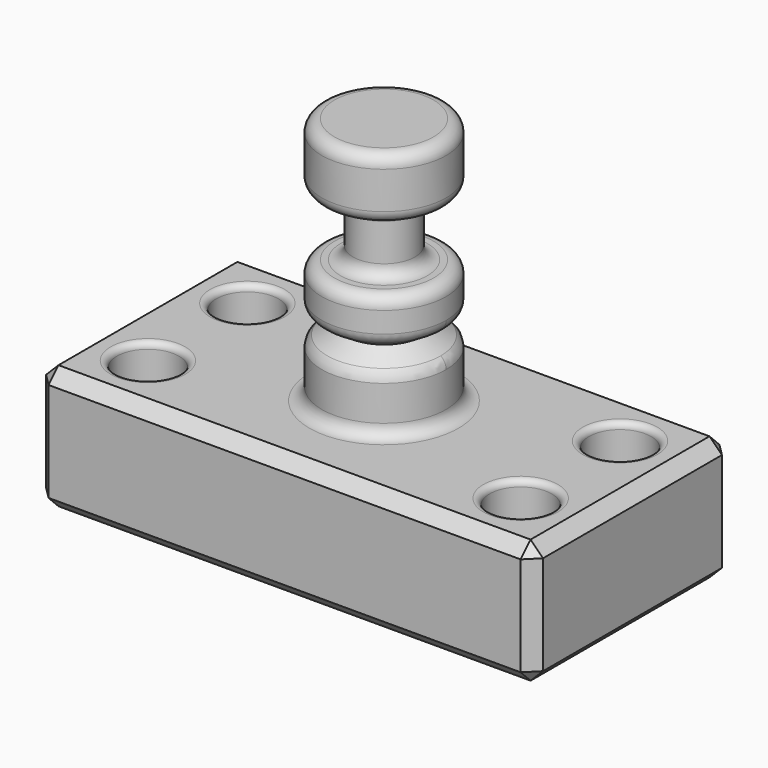
from build123d import *

# Parameters (mm, degrees)
F0_W     = 101.6
F0_H     = 50.8
F1_DEPTH = 25.4
F2_R     = 6.35
F3_DEPTH = 25.401
F4_W     = 12.7
F4_H     = 50.8
F6_W     = 10.517051357
F6_H     = 12.7
F8_R     = 2.54
F9_SIZE  = 2.54
F10_R    = 1.27
F13_R    = 2.54


with BuildPart() as f1:
    # F0 (on Top) → F1 (new body)
    with BuildSketch(Plane.XY):
        Rectangle(F0_W, F0_H)
    extrude(amount=F1_DEPTH)

    # F2 (on face) → F3 (cut, through all)
    with BuildSketch(Plane.XY.offset(25.4)):
        with Locations((-38.1, 12.7)):
            Circle(F2_R)
        with Locations((-38.1, -12.7)):
            Circle(F2_R)
        with Locations((38.1, -12.7)):
            Circle(F2_R)
        with Locations((38.1, 12.7)):
            Circle(F2_R)
    extrude(amount=-F3_DEPTH, mode=Mode.SUBTRACT)

    # F4 (on Front) → F5 (revolve)
    with BuildSketch(Plane.XZ):
        with Locations((-6.35, 50.8)):
            Rectangle(F4_W, F4_H)
    revolve(axis=Axis((0, 0, 50.8), (0, 0, -1)))

    # F6 (on Front) → F7 (revolve, cut)
    with BuildSketch(Plane.XZ):
        with Locations((-11.6085256785, 57.15)):
            Rectangle(F6_W, F6_H)
    revolve(axis=Axis((0, 0, 42.492736131), (0, 0, 1)), mode=Mode.SUBTRACT)

    # F8
    f8_edges = [f1.edges().sort_by_distance(p)[0] for p in [
        (12.7, 0, 50.8),
        (12.7, 0, 63.5),
        (12.7, 0, 25.4),
        (12.7, 0, 76.2),
        (6.35, 0, 50.8),
        (6.35, 0, 63.5),
    ]]
    fillet(f8_edges, radius=F8_R)

    # F9
    f9_edges = [f1.edges().sort_by_distance(p)[0] for p in [
        (0, 25.4, 25.4),
        (50.8, 0, 25.4),
        (50.8, 25.4, 12.7),
        (-50.8, 25.4, 12.7),
        (0, 25.4, 0),
        (50.8, -25.4, 12.7),
        (50.8, 0, 0),
        (-50.8, -25.4, 12.7),
        (-50.8, 0, 0),
        (-50.8, 0, 25.4),
        (0, -25.4, 0),
        (0, -25.4, 25.4),
    ]]
    chamfer(f9_edges, length=F9_SIZE)

    # F10
    f10_edges = [f1.edges().sort_by_distance(p)[0] for p in [
        (-44.45, 12.7, 25.4),
        (-31.75, 12.7, 12.7),
        (-44.45, 12.7, 0),
        (-44.45, -12.7, 25.4),
        (-31.75, -12.7, 12.7),
        (-44.45, -12.7, 0),
        (31.75, -12.7, 25.4),
        (44.45, -12.7, 12.7),
        (31.75, -12.7, 0),
        (31.75, 12.7, 25.4),
        (44.45, 12.7, 12.7),
        (31.75, 12.7, 0),
    ]]
    fillet(f10_edges, radius=F10_R)

    # F11 (on Front) → F12 (revolve, cut)
    with BuildSketch(Plane.XZ):
        Polygon((19.6304377168, 46.9103418291), (8.0018844455, 39.6613739431), (19.6304377168, 31.8083241582), align=None)
    revolve(axis=Axis((0, 0, 30.9765487909), (0, 0, 1)), mode=Mode.SUBTRACT)

    # F13
    f13_edges = [f1.edges().sort_by_distance(p)[0] for p in [
        (0, 12.7, 42.590069),
        (0, -12.7, 42.590069),
        (0, -12.7, 36.48862),
        (0, 12.7, 36.48862),
    ]]
    fillet(f13_edges, radius=F13_R)


solid = f1.part
